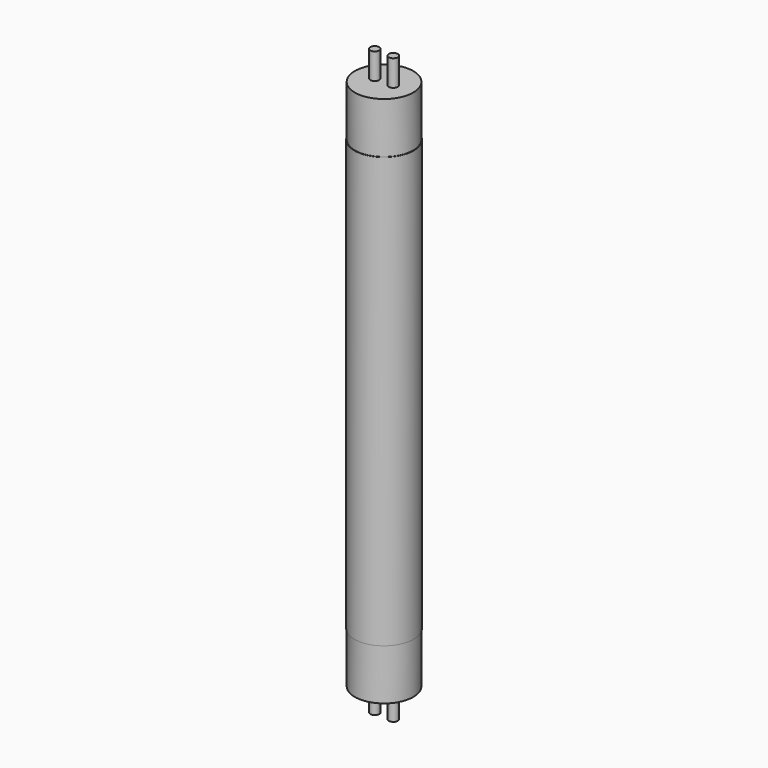
from build123d import *

# Parameters (mm, degrees)
F0_R     = 7.5
F1_DEPTH = 54.5
F2_R     = 7.4
F3_DEPTH = 12.9
F4_R     = 1.15
F5_DEPTH = 6.6


with BuildPart() as f1:
    # F0 (on Top) → F1 (new body, symmetric)
    with BuildSketch(Plane.XY):
        Circle(F0_R)
    extrude(amount=F1_DEPTH, both=True)


with BuildPart() as f3:
    # F2 (on face) → F3 (new body)
    with BuildSketch(Plane.XY.offset(54.5)):
        Circle(F2_R)
    extrude(amount=F3_DEPTH)

    # F4 (on face) → F5 (join)
    with BuildSketch(Plane.XY.offset(67.4)):
        with Locations((-2.35, 0)):
            Circle(F4_R)
        with Locations((2.35, 0)):
            Circle(F4_R)
    extrude(amount=F5_DEPTH)


with BuildPart() as f6_1:
    # F6: instance of F3
    add(f3.part.mirror(Plane.XY))


solid = Compound([f1.part, f3.part, f6_1.part])
